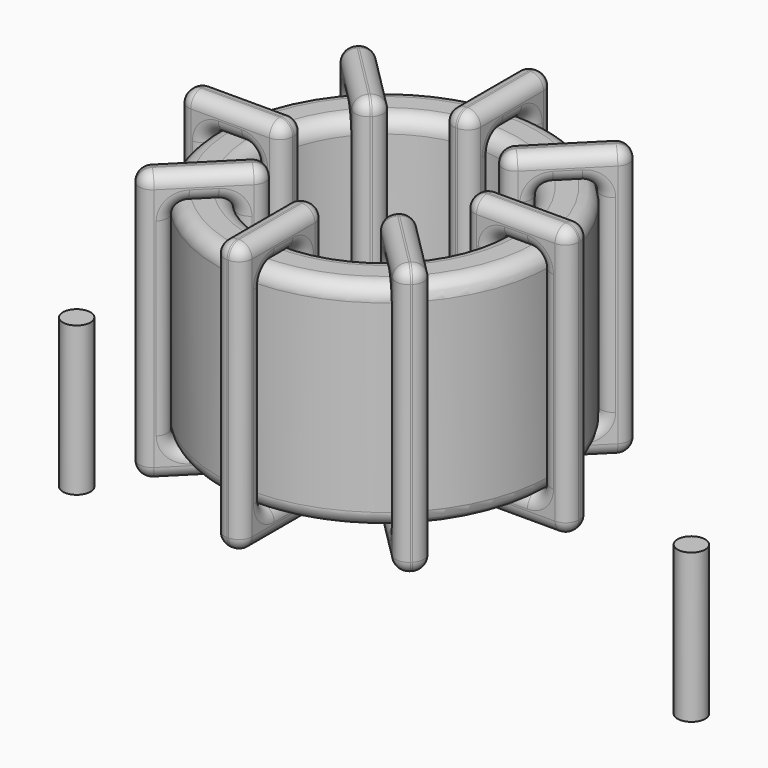
from build123d import *

# Parameters (mm, degrees)
SKETCH001_R       = 0.45
PAD001_DEPTH      = 0.45
PAD001_DEPTH_BACK = 4.4
SKETCH_R          = 5.45
SKETCH_R_2        = 3.8481
PAD_DEPTH         = 7
FILLET_R          = 0.5
SKETCH003_W       = 3.4019
SKETCH003_H       = 8.8
SKETCH003_W_2     = 1.6019
SKETCH003_H_2     = 7
PAD002_DEPTH      = 0.45
FILLET001_R       = 0.423
SKETCH004_W       = 3.4019
SKETCH004_H       = 8.8
SKETCH004_W_2     = 1.6019
SKETCH004_H_2     = 7
PAD003_DEPTH      = 0.45
FILLET002_R       = 0.423
SKETCH005_W       = 3.4019
SKETCH005_H       = 8.8
SKETCH005_W_2     = 1.6019
SKETCH005_H_2     = 7
PAD004_DEPTH      = 0.45
FILLET003_R       = 0.423
SKETCH006_W       = 3.4019
SKETCH006_H       = 8.8
SKETCH006_W_2     = 1.6019
SKETCH006_H_2     = 7
PAD005_DEPTH      = 0.45
FILLET004_R       = 0.423


with BuildPart() as pad001:
    # Sketch001 → Pad001 (new body, two sides)
    with BuildSketch(Plane.XY.offset(0.95)) as pad001_sk:
        Circle(SKETCH001_R)
        with Locations((20, 0)):
            Circle(SKETCH001_R)
    extrude(amount=PAD001_DEPTH)
    extrude(pad001_sk.sketch, amount=-PAD001_DEPTH_BACK)


with BuildPart() as fillet_body:
    # Sketch → Pad (new body)
    with BuildSketch(Plane.XY.offset(1.4)):
        with Locations((10, 0)):
            Circle(SKETCH_R)
        with Locations((10, 0)):
            Circle(SKETCH_R_2, mode=Mode.SUBTRACT)
    extrude(amount=PAD_DEPTH)

    # Fillet
    fillet_edges = [fillet_body.edges().sort_by_distance(p)[0] for p in [
        (6.1519, 0, 8.4),
        (4.55, 0, 8.4),
        (4.55, 0, 1.4),
    ]]
    fillet(fillet_edges, radius=FILLET_R)


with BuildPart() as fillet001:
    # Sketch003 → Pad002 (new body, symmetric)
    with BuildSketch(Plane(origin=(10, 0, 0), x_dir=(1, 0, 0), z_dir=(0, -1, 0))):
        with Locations((-4.64905, 4.9)):
            Rectangle(SKETCH003_W, SKETCH003_H)
        with Locations((-4.64905, 4.9)):
            Rectangle(SKETCH003_W_2, SKETCH003_H_2, mode=Mode.SUBTRACT)
        with Locations((4.64905, 4.9)):
            Rectangle(SKETCH003_W, SKETCH003_H)
        with Locations((4.64905, 4.9)):
            Rectangle(SKETCH003_W_2, SKETCH003_H_2, mode=Mode.SUBTRACT)
    extrude(amount=PAD002_DEPTH, both=True)

    # Fillet001
    fillet001_edges = [fillet001.edges().sort_by_distance(p)[0] for p in [
        (6.1519, 0, 8.4),
        (6.1519, 0, 1.4),
        (6.1519, 0.45, 4.9),
        (6.1519, -0.45, 4.9),
        (3.65, 0, 9.3),
        (7.0519, 0, 9.3),
        (5.35095, 0.45, 9.3),
        (5.35095, -0.45, 9.3),
        (7.0519, 0, 0.5),
        (7.0519, 0.45, 4.9),
        (7.0519, -0.45, 4.9),
        (13.8481, 0, 8.4),
        (15.45, 0, 8.4),
        (14.64905, 0.45, 8.4),
        (14.64905, -0.45, 8.4),
        (15.45, 0, 1.4),
        (15.45, 0.45, 4.9),
        (15.45, -0.45, 4.9),
        (12.9481, 0, 9.3),
        (16.35, 0, 9.3),
        (14.64905, 0.45, 9.3),
        (14.64905, -0.45, 9.3),
        (16.35, 0, 0.5),
        (16.35, 0.45, 4.9),
        (16.35, -0.45, 4.9),
        (4.55, 0, 8.4),
        (5.35095, 0.45, 8.4),
        (5.35095, -0.45, 8.4),
        (13.8481, 0, 1.4),
        (13.8481, 0.45, 4.9),
        (13.8481, -0.45, 4.9),
        (14.64905, 0.45, 1.4),
        (14.64905, -0.45, 1.4),
        (12.9481, 0, 0.5),
        (14.64905, 0.45, 0.5),
        (14.64905, -0.45, 0.5),
        (12.9481, 0.45, 4.9),
        (12.9481, -0.45, 4.9),
        (3.65, 0, 0.5),
        (5.35095, 0.45, 0.5),
        (5.35095, -0.45, 0.5),
        (3.65, 0.45, 4.9),
        (3.65, -0.45, 4.9),
        (4.55, 0, 1.4),
        (4.55, 0.45, 4.9),
        (4.55, -0.45, 4.9),
        (5.35095, 0.45, 1.4),
        (5.35095, -0.45, 1.4),
    ]]
    fillet(fillet001_edges, radius=FILLET001_R)


with BuildPart() as fillet002:
    # Sketch004 → Pad003 (new body, symmetric)
    with BuildSketch(Plane(origin=(10, 0, 0), x_dir=(0.707107, 0.707107, 0), z_dir=(0.707107, -0.707107, 0))):
        with Locations((-4.64905, 4.9)):
            Rectangle(SKETCH004_W, SKETCH004_H)
        with Locations((-4.64905, 4.9)):
            Rectangle(SKETCH004_W_2, SKETCH004_H_2, mode=Mode.SUBTRACT)
        with Locations((4.64905, 4.9)):
            Rectangle(SKETCH004_W, SKETCH004_H)
        with Locations((4.64905, 4.9)):
            Rectangle(SKETCH004_W_2, SKETCH004_H_2, mode=Mode.SUBTRACT)
    extrude(amount=PAD003_DEPTH, both=True)

    # Fillet002
    fillet002_edges = [fillet002.edges().sort_by_distance(p)[0] for p in [
        (7.278982, -2.721018, 8.4),
        (7.278982, -2.721018, 1.4),
        (6.960784, -2.40282, 4.9),
        (7.59718, -3.039216, 4.9),
        (5.509872, -4.490128, 9.3),
        (7.915378, -2.084622, 9.3),
        (6.394427, -2.969177, 9.3),
        (7.030823, -3.605573, 9.3),
        (7.915378, -2.084622, 0.5),
        (7.59718, -1.766423, 4.9),
        (8.233577, -2.40282, 4.9),
        (12.721018, 2.721018, 8.4),
        (13.853732, 3.853732, 8.4),
        (12.969177, 3.605573, 8.4),
        (13.605573, 2.969177, 8.4),
        (13.853732, 3.853732, 1.4),
        (13.535534, 4.17193, 4.9),
        (14.17193, 3.535534, 4.9),
        (12.084622, 2.084622, 9.3),
        (14.490128, 4.490128, 9.3),
        (12.969177, 3.605573, 9.3),
        (13.605573, 2.969177, 9.3),
        (14.490128, 4.490128, 0.5),
        (14.17193, 4.808326, 4.9),
        (14.808326, 4.17193, 4.9),
        (6.146268, -3.853732, 8.4),
        (6.394427, -2.969177, 8.4),
        (7.030823, -3.605573, 8.4),
        (12.721018, 2.721018, 1.4),
        (12.40282, 3.039216, 4.9),
        (13.039216, 2.40282, 4.9),
        (12.969177, 3.605573, 1.4),
        (13.605573, 2.969177, 1.4),
        (12.084622, 2.084622, 0.5),
        (12.969177, 3.605573, 0.5),
        (13.605573, 2.969177, 0.5),
        (11.766423, 2.40282, 4.9),
        (12.40282, 1.766423, 4.9),
        (5.509872, -4.490128, 0.5),
        (6.394427, -2.969177, 0.5),
        (7.030823, -3.605573, 0.5),
        (5.191674, -4.17193, 4.9),
        (5.82807, -4.808326, 4.9),
        (6.146268, -3.853732, 1.4),
        (5.82807, -3.535534, 4.9),
        (6.464466, -4.17193, 4.9),
        (6.394427, -2.969177, 1.4),
        (7.030823, -3.605573, 1.4),
    ]]
    fillet(fillet002_edges, radius=FILLET002_R)


with BuildPart() as fillet003:
    # Sketch005 → Pad004 (new body, symmetric)
    with BuildSketch(Plane(origin=(10, 0, 0), x_dir=(0.707107, -0.707107, 0), z_dir=(-0.707107, -0.707107, 0))):
        with Locations((-4.64905, 4.9)):
            Rectangle(SKETCH005_W, SKETCH005_H)
        with Locations((-4.64905, 4.9)):
            Rectangle(SKETCH005_W_2, SKETCH005_H_2, mode=Mode.SUBTRACT)
        with Locations((4.64905, 4.9)):
            Rectangle(SKETCH005_W, SKETCH005_H)
        with Locations((4.64905, 4.9)):
            Rectangle(SKETCH005_W_2, SKETCH005_H_2, mode=Mode.SUBTRACT)
    extrude(amount=PAD004_DEPTH, both=True)

    # Fillet003
    fillet003_edges = [fillet003.edges().sort_by_distance(p)[0] for p in [
        (6.146268, 3.853732, 8.4),
        (7.278982, 2.721018, 1.4),
        (7.030823, 3.605573, 1.4),
        (6.394427, 2.969177, 1.4),
        (5.509872, 4.490128, 9.3),
        (7.915378, 2.084622, 9.3),
        (7.030823, 3.605573, 9.3),
        (6.394427, 2.969177, 9.3),
        (7.915378, 2.084622, 0.5),
        (8.233577, 2.40282, 4.9),
        (7.59718, 1.766423, 4.9),
        (12.721018, -2.721018, 8.4),
        (13.853732, -3.853732, 8.4),
        (13.605573, -2.969177, 8.4),
        (12.969177, -3.605573, 8.4),
        (13.853732, -3.853732, 1.4),
        (14.17193, -3.535534, 4.9),
        (13.535534, -4.17193, 4.9),
        (12.084622, -2.084622, 0.5),
        (12.084622, -2.084622, 9.3),
        (12.40282, -1.766423, 4.9),
        (11.766423, -2.40282, 4.9),
        (14.490128, -4.490128, 0.5),
        (13.605573, -2.969177, 0.5),
        (12.969177, -3.605573, 0.5),
        (6.146268, 3.853732, 1.4),
        (6.464466, 4.17193, 4.9),
        (5.82807, 3.535534, 4.9),
        (12.721018, -2.721018, 1.4),
        (13.039216, -2.40282, 4.9),
        (12.40282, -3.039216, 4.9),
        (13.605573, -2.969177, 1.4),
        (12.969177, -3.605573, 1.4),
        (14.490128, -4.490128, 9.3),
        (14.808326, -4.17193, 4.9),
        (14.17193, -4.808326, 4.9),
        (13.605573, -2.969177, 9.3),
        (12.969177, -3.605573, 9.3),
        (5.509872, 4.490128, 0.5),
        (7.030823, 3.605573, 0.5),
        (6.394427, 2.969177, 0.5),
        (5.82807, 4.808326, 4.9),
        (5.191674, 4.17193, 4.9),
        (7.278982, 2.721018, 8.4),
        (7.030823, 3.605573, 8.4),
        (6.394427, 2.969177, 8.4),
        (7.59718, 3.039216, 4.9),
        (6.960784, 2.40282, 4.9),
    ]]
    fillet(fillet003_edges, radius=FILLET003_R)


with BuildPart() as fillet004:
    # Sketch006 → Pad005 (new body, symmetric)
    with BuildSketch(Plane.YZ.offset(10)):
        with Locations((-4.64905, 4.9)):
            Rectangle(SKETCH006_W, SKETCH006_H)
        with Locations((-4.64905, 4.9)):
            Rectangle(SKETCH006_W_2, SKETCH006_H_2, mode=Mode.SUBTRACT)
        with Locations((4.64905, 4.9)):
            Rectangle(SKETCH006_W, SKETCH006_H)
        with Locations((4.64905, 4.9)):
            Rectangle(SKETCH006_W_2, SKETCH006_H_2, mode=Mode.SUBTRACT)
    extrude(amount=PAD005_DEPTH, both=True)

    # Fillet004
    fillet004_edges = [fillet004.edges().sort_by_distance(p)[0] for p in [
        (10, 5.45, 8.4),
        (10, 5.45, 1.4),
        (9.55, 5.45, 4.9),
        (10.45, 5.45, 4.9),
        (10, 6.35, 0.5),
        (10, 2.9481, 0.5),
        (9.55, 4.64905, 0.5),
        (10.45, 4.64905, 0.5),
        (10, 2.9481, 9.3),
        (9.55, 2.9481, 4.9),
        (10.45, 2.9481, 4.9),
        (10, -5.45, 8.4),
        (10, -3.8481, 8.4),
        (9.55, -4.64905, 8.4),
        (10.45, -4.64905, 8.4),
        (10, -3.8481, 1.4),
        (9.55, -3.8481, 4.9),
        (10.45, -3.8481, 4.9),
        (10, -2.9481, 0.5),
        (10, -6.35, 0.5),
        (9.55, -4.64905, 0.5),
        (10.45, -4.64905, 0.5),
        (10, -6.35, 9.3),
        (9.55, -6.35, 4.9),
        (10.45, -6.35, 4.9),
        (10, 3.8481, 8.4),
        (9.55, 4.64905, 8.4),
        (10.45, 4.64905, 8.4),
        (10, -5.45, 1.4),
        (9.55, -5.45, 4.9),
        (10.45, -5.45, 4.9),
        (9.55, -4.64905, 1.4),
        (10.45, -4.64905, 1.4),
        (10, -2.9481, 9.3),
        (9.55, -4.64905, 9.3),
        (10.45, -4.64905, 9.3),
        (9.55, -2.9481, 4.9),
        (10.45, -2.9481, 4.9),
        (10, 6.35, 9.3),
        (9.55, 4.64905, 9.3),
        (10.45, 4.64905, 9.3),
        (9.55, 6.35, 4.9),
        (10.45, 6.35, 4.9),
        (10, 3.8481, 1.4),
        (9.55, 3.8481, 4.9),
        (10.45, 3.8481, 4.9),
        (9.55, 4.64905, 1.4),
        (10.45, 4.64905, 1.4),
    ]]
    fillet(fillet004_edges, radius=FILLET004_R)


solid = Compound([pad001.part, fillet_body.part, fillet001.part, fillet002.part, fillet003.part, fillet004.part])
